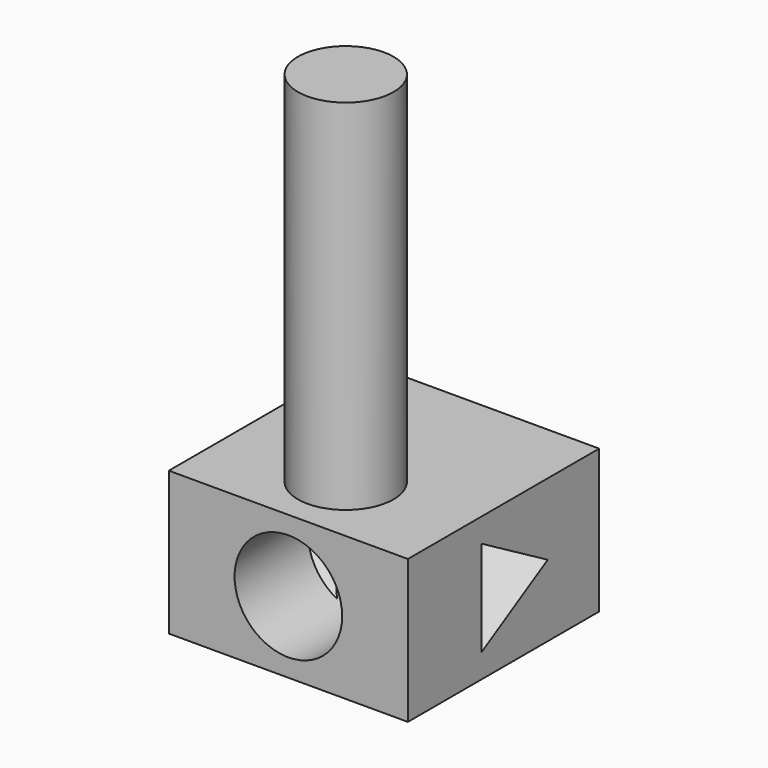
from build123d import *

# Parameters (mm, degrees)
F0_W     = 100
F0_H     = 100
F1_DEPTH = 60
F2_R     = 20
F3_DEPTH = 150
F5_DEPTH = 100
F6_R     = 22.5
F7_DEPTH = 50


with BuildPart() as f1:
    # F0 (on Top) → F1 (new body)
    with BuildSketch(Plane.XY):
        Rectangle(F0_W, F0_H)
    extrude(amount=F1_DEPTH)

    # F2 (on face) → F3 (join)
    with BuildSketch(Plane.XY.offset(60)):
        with Locations((0, -20)):
            Circle(F2_R)
    extrude(amount=F3_DEPTH)

    # F4 (on face) → F5 (cut)
    with BuildSketch(Plane(origin=(-50, 0, 0), x_dir=(0, -1, 0), z_dir=(-1, 0, 0))):
        Polygon((-23.094011, 30), (11.547005, 10), (11.547005, 50), align=None)
    extrude(amount=-F5_DEPTH, mode=Mode.SUBTRACT)

    # F6 (on face) → F7 (cut)
    with BuildSketch(Plane.XZ.offset(50)):
        with Locations((0, 30)):
            Circle(F6_R)
    extrude(amount=-F7_DEPTH, mode=Mode.SUBTRACT)


solid = f1.part
